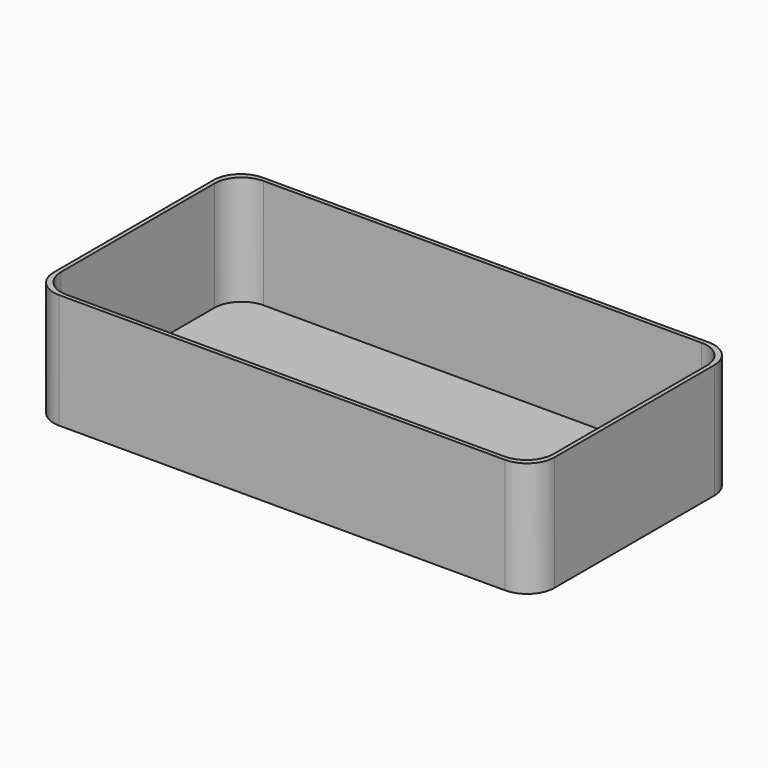
from build123d import *

# Parameters (mm, degrees)
PAD_DEPTH    = 42
POCKET_DEPTH = 40
PAD001_DEPTH = 6
PAD002_DEPTH = 5


with BuildPart() as part:
    # Sketch → Pad (new body)
    with BuildSketch(Plane.XY):
        with BuildLine():
            Line((-91.5, 36.5), (-91.5, -36.5))
            ThreePointArc((-91.5, -36.5), (-88.571068, -43.571068), (-81.5, -46.5))
            Line((-81.5, -46.5), (81.5, -46.5))
            ThreePointArc((81.5, -46.5), (88.571068, -43.571068), (91.5, -36.5))
            Line((91.5, -36.5), (91.5, 36.5))
            ThreePointArc((91.5, 36.5), (88.571068, 43.571068), (81.5, 46.5))
            Line((81.5, 46.5), (-81.5, 46.5))
            ThreePointArc((-81.5, 46.5), (-88.571068, 43.571068), (-91.5, 36.5))
        make_face()
    extrude(amount=PAD_DEPTH)

    # Sketch001 (on Face10 of Pad) → Pocket (cut)
    with BuildSketch(Plane.XY.offset(42)):
        with BuildLine():
            Line((-90, 35), (-90, -35))
            ThreePointArc((-90, -35), (-87.071068, -42.071068), (-80, -45))
            Line((-80, -45), (80, -45))
            ThreePointArc((80, -45), (87.071068, -42.071068), (90, -35))
            Line((90, -35), (90, 35))
            ThreePointArc((90, 35), (87.071068, 42.071068), (80, 45))
            Line((80, 45), (-80, 45))
            ThreePointArc((-80, 45), (-87.071068, 42.071068), (-90, 35))
        make_face()
    extrude(amount=-POCKET_DEPTH, mode=Mode.SUBTRACT)

    # Sketch002 (on Face6 of Pocket) → Pad001 (join)
    with BuildSketch(Plane(origin=(0, 46.5, 0), x_dir=(-1, 0, 0), z_dir=(0, 1, 0))):
        with BuildLine():
            ThreePointArc((-17.8, 30.8), (-20, 33), (-22.2, 30.8))
            Line((-22.2, 30.8), (-22.2, 28.7))
            ThreePointArc((-22.2, 28.7), (-20, 26.5), (-17.8, 28.7))
            Line((-17.8, 30.8), (-17.8, 28.7))
        make_face()
        with BuildLine():
            ThreePointArc((22.2, 30.8), (20, 33), (17.8, 30.8))
            Line((17.8, 30.8), (17.8, 28.7))
            ThreePointArc((17.8, 28.7), (20, 26.5), (22.2, 28.7))
            Line((22.2, 30.8), (22.2, 28.7))
        make_face()
        with BuildLine():
            ThreePointArc((62.2, 30.8), (60, 33), (57.8, 30.8))
            Line((57.8, 30.8), (57.8, 28.7))
            ThreePointArc((57.8, 28.7), (60, 26.5), (62.2, 28.7))
            Line((62.2, 30.8), (62.2, 28.7))
        make_face()
        with BuildLine():
            ThreePointArc((-37.8, 10.8), (-40, 13), (-42.2, 10.8))
            Line((-42.2, 10.8), (-42.2, 8.7))
            ThreePointArc((-42.2, 8.7), (-40, 6.5), (-37.8, 8.7))
            Line((-37.8, 10.8), (-37.8, 8.7))
        make_face()
        with BuildLine():
            ThreePointArc((2.2, 10.8), (0, 13), (-2.2, 10.8))
            Line((-2.2, 10.8), (-2.2, 8.7))
            ThreePointArc((-2.2, 8.7), (0, 6.5), (2.2, 8.7))
            Line((2.2, 10.8), (2.2, 8.7))
        make_face()
        with BuildLine():
            ThreePointArc((42.2, 10.8), (40, 13), (37.8, 10.8))
            Line((37.8, 10.8), (37.8, 8.7))
            ThreePointArc((37.8, 8.7), (40, 6.5), (42.2, 8.7))
            Line((42.2, 10.8), (42.2, 8.7))
        make_face()
        with BuildLine():
            ThreePointArc((-57.8, 30.8), (-60, 33), (-62.2, 30.8))
            Line((-62.2, 30.8), (-62.2, 28.7))
            ThreePointArc((-62.2, 28.7), (-60, 26.5), (-57.8, 28.7))
            Line((-57.8, 30.8), (-57.8, 28.7))
        make_face()
    extrude(amount=PAD001_DEPTH)

    # Sketch003 (on Face49 of Pad001) → Pad002 (join)
    with BuildSketch(Plane(origin=(0, 52.5, 0), x_dir=(-1, 0, 0), z_dir=(0, 1, 0))):
        with BuildLine():
            ThreePointArc((62.2, 30.8), (60, 33), (57.8, 30.8))
            Line((57.8, 30.8), (57.8, 22.2))
            ThreePointArc((57.8, 22.2), (60, 20), (62.2, 22.2))
            Line((62.2, 30.8), (62.2, 22.2))
        make_face()
        with BuildLine():
            ThreePointArc((22.2, 30.8), (20, 33), (17.8, 30.8))
            Line((17.8, 30.8), (17.8, 22.2))
            ThreePointArc((17.8, 22.2), (20, 20), (22.2, 22.2))
            Line((22.2, 30.8), (22.2, 22.2))
        make_face()
        with BuildLine():
            ThreePointArc((42.2, 10.8), (40, 13), (37.8, 10.8))
            Line((37.8, 10.8), (37.8, 2.2))
            ThreePointArc((37.8, 2.2), (40, 0), (42.2, 2.2))
            Line((42.2, 10.8), (42.2, 2.2))
        make_face()
        with BuildLine():
            ThreePointArc((-17.8, 30.8), (-20, 33), (-22.2, 30.8))
            Line((-22.2, 30.8), (-22.2, 22.2))
            ThreePointArc((-22.2, 22.2), (-20, 20), (-17.8, 22.2))
            Line((-17.8, 30.8), (-17.8, 22.2))
        make_face()
        with BuildLine():
            ThreePointArc((2.2, 10.8), (0, 13), (-2.2, 10.8))
            Line((-2.2, 10.8), (-2.2, 2.2))
            ThreePointArc((-2.2, 2.2), (0, 0), (2.2, 2.2))
            Line((2.2, 10.8), (2.2, 2.2))
        make_face()
        with BuildLine():
            ThreePointArc((-37.8, 10.8), (-40, 13), (-42.2, 10.8))
            Line((-42.2, 10.8), (-42.2, 2.2))
            ThreePointArc((-42.2, 2.2), (-40, 0), (-37.8, 2.2))
            Line((-37.8, 10.8), (-37.8, 2.2))
        make_face()
        with BuildLine():
            ThreePointArc((-57.8, 30.8), (-60, 33), (-62.2, 30.8))
            Line((-62.2, 30.8), (-62.2, 22.2))
            ThreePointArc((-62.2, 22.2), (-60, 20), (-57.8, 22.2))
            Line((-57.8, 30.8), (-57.8, 22.2))
        make_face()
    extrude(amount=PAD002_DEPTH)


solid = part.part
